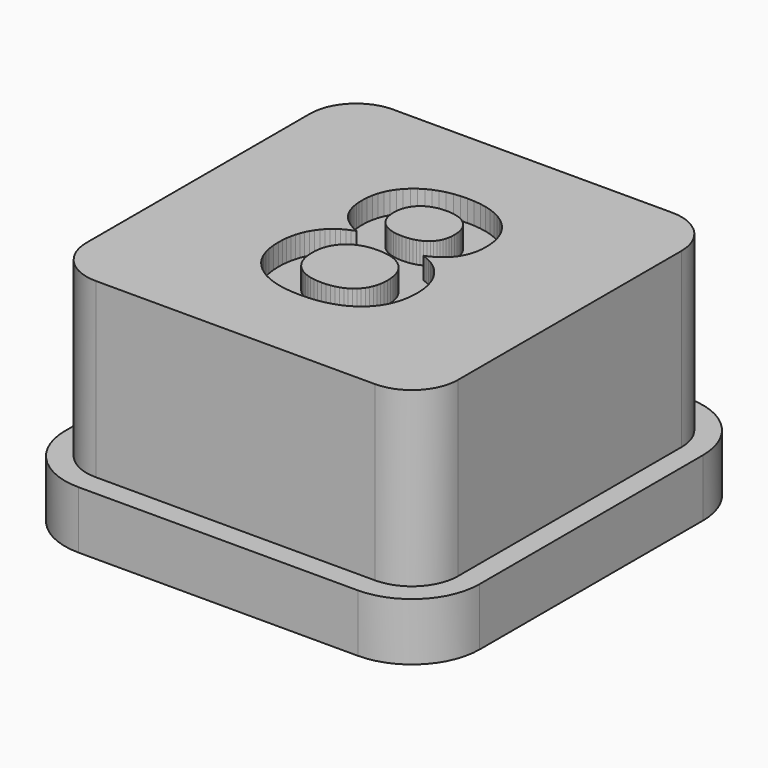
from build123d import *

# Parameters (mm, degrees)
F1_DEPTH = 2
F2_DEPTH = 8
F3_DEPTH = 7.25


with BuildPart() as f1:
    # F0 (on Top) → F1 (new body)
    with BuildSketch(Plane.XY):
        with BuildLine():
            Line((4.85, 7.2), (-4.85, 7.2))
            ThreePointArc((-4.85, 7.2), (-6.5117009358, 6.5117009358), (-7.2, 4.85))
            Line((-7.2, 4.85), (-7.2, -4.85))
            ThreePointArc((-7.2, -4.85), (-6.5117009358, -6.5117009358), (-4.85, -7.2))
            Line((-4.85, -7.2), (4.85, -7.2))
            ThreePointArc((4.85, -7.2), (6.5117009358, -6.5117009358), (7.2, -4.85))
            Line((7.2, -4.85), (7.2, 4.85))
            ThreePointArc((7.2, 4.85), (6.5117009358, 6.5117009358), (4.85, 7.2))
        make_face()
        with BuildLine():
            ThreePointArc((6.45, -4.85), (5.9813708499, -5.9813708499), (4.85, -6.45))
            Line((4.85, -6.45), (-4.85, -6.45))
            ThreePointArc((-4.85, -6.45), (-5.9813708499, -5.9813708499), (-6.45, -4.85))
            Line((-6.45, -4.85), (-6.45, 4.85))
            ThreePointArc((-6.45, 4.85), (-5.9813708499, 5.9813708499), (-4.85, 6.45))
            Line((-4.85, 6.45), (4.85, 6.45))
            ThreePointArc((4.85, 6.45), (5.9813708499, 5.9813708499), (6.45, 4.85))
            Line((6.45, 4.85), (6.45, -4.85))
        make_face(mode=Mode.SUBTRACT)
    extrude(amount=F1_DEPTH)

    # F0 (on Top) → F2 (join)
    with BuildSketch(Plane.XY):
        with BuildLine():
            Line((-4.85, -6.45), (4.85, -6.45))
            ThreePointArc((4.85, -6.45), (5.9813708499, -5.9813708499), (6.45, -4.85))
            Line((6.45, -4.85), (6.45, 4.85))
            ThreePointArc((6.45, 4.85), (5.9813708499, 5.9813708499), (4.85, 6.45))
            Line((4.85, 6.45), (-4.85, 6.45))
            ThreePointArc((-4.85, 6.45), (-5.9813708499, 5.9813708499), (-6.45, 4.85))
            Line((-6.45, 4.85), (-6.45, -4.85))
            ThreePointArc((-6.45, -4.85), (-5.9813708499, -5.9813708499), (-4.85, -6.45))
        make_face()
        Polygon((-1.303535, 0.205863), (-1.159495, 0.258197), (-1.285455, 0.316545), (-1.402749, 0.379226), (-1.511377, 0.446241), (-1.611339, 0.517589), (-1.702634, 0.59327), (-1.785263, 0.673284), (-1.859226, 0.757631), (-1.924522, 0.846311), (-1.981675, 0.939997), (-2.031207, 1.039361), (-2.073119, 1.144403), (-2.107411, 1.255123), (-2.134083, 1.371521), (-2.153134, 1.493596), (-2.164564, 1.62135), (-2.168374, 1.754781), (-2.15911, 1.960084), (-2.131318, 2.155225), (-2.084998, 2.340207), (-2.02015, 2.515027), (-1.936774, 2.679688), (-1.83487, 2.834187), (-1.714438, 2.978526), (-1.575478, 3.112705), (-1.421277, 3.233735), (-1.255123, 3.338627), (-1.077015, 3.427382), (-0.886954, 3.5), (-0.684939, 3.556481), (-0.47097, 3.596824), (-0.245048, 3.62103), (-0.007172, 3.629098), (0.236232, 3.620918), (0.466786, 3.596376), (0.68449, 3.555472), (0.889344, 3.498207), (1.081348, 3.424581), (1.260502, 3.334593), (1.426806, 3.228243), (1.58026, 3.105533), (1.718099, 2.96915), (1.83756, 2.821785), (1.938642, 2.663438), (2.021346, 2.494109), (2.085671, 2.313797), (2.131617, 2.122503), (2.159185, 1.920226), (2.168374, 1.706967), (2.164377, 1.580147), (2.152386, 1.457885), (2.132402, 1.34018), (2.104423, 1.227032), (2.06845, 1.118442), (2.024483, 1.014408), (1.972523, 0.914932), (1.912568, 0.820014), (1.844844, 0.730175), (1.769574, 0.64594), (1.686758, 0.567308), (1.596397, 0.494279), (1.49849, 0.426854), (1.393037, 0.365032), (1.280039, 0.308813), (1.159495, 0.258197), (1.301368, 0.205788), (1.435323, 0.14419), (1.561358, 0.073402), (1.679474, -0.006574), (1.789671, -0.09574), (1.891948, -0.194096), (1.986307, -0.30164), (2.072746, -0.418374), (2.15007, -0.54243), (2.217085, -0.671939), (2.27379, -0.806902), (2.320184, -0.947319), (2.356269, -1.09319), (2.382044, -1.244514), (2.397509, -1.401292), (2.402664, -1.563525), (2.39269, -1.798487), (2.362769, -2.020449), (2.3129, -2.229412), (2.243084, -2.425376), (2.15332, -2.60834), (2.043609, -2.778304), (1.91395, -2.935269), (1.764344, -3.079235), (1.597032, -3.208109), (1.414255, -3.3198), (1.216012, -3.414308), (1.002305, -3.491633), (0.773133, -3.551774), (0.528496, -3.594732), (0.268395, -3.620507), (-0.007172, -3.629098), (-0.278294, -3.620507), (-0.534623, -3.594732), (-0.776159, -3.551774), (-1.002903, -3.491633), (-1.214854, -3.414308), (-1.412013, -3.3198), (-1.59438, -3.208109), (-1.761954, -3.079235), (-1.91212, -2.935568), (-2.042264, -2.7795), (-2.152386, -2.611029), (-2.242486, -2.430157), (-2.312564, -2.236883), (-2.36262, -2.031207), (-2.392653, -1.81313), (-2.402664, -1.58265), (-2.397584, -1.413769), (-2.382343, -1.251387), (-2.356942, -1.095506), (-2.32138, -0.946124), (-2.275657, -0.803241), (-2.219775, -0.666859), (-2.153731, -0.536976), (-2.077527, -0.413593), (-1.992059, -0.29798), (-1.898224, -0.191406), (-1.796021, -0.093873), (-1.685451, -0.005379), (-1.566513, 0.074075), (-1.439208, 0.144489), align=None, mode=Mode.SUBTRACT)
    extrude(amount=F2_DEPTH)



with BuildPart() as f2:
    # F0 (on Top) → F2, piece 2 (new body)
    with BuildSketch(Plane.XY):
        Polygon((0.134253, 2.70225), (0.016735, 2.706284), (-0.104295, 2.702212), (-0.21875, 2.689997), (-0.326631, 2.669639), (-0.427937, 2.641137), (-0.522669, 2.604492), (-0.610827, 2.559704), (-0.692409, 2.506772), (-0.767418, 2.445697), (-0.834657, 2.377599), (-0.89293, 2.303599), (-0.942239, 2.223697), (-0.982582, 2.137893), (-1.01396, 2.046187), (-1.036373, 1.948578), (-1.049821, 1.845068), (-1.054303, 1.735656), (-1.049933, 1.628671), (-1.036821, 1.527664), (-1.014969, 1.432633), (-0.984375, 1.343579), (-0.94504, 1.260502), (-0.896965, 1.183402), (-0.840148, 1.112278), (-0.77459, 1.047131), (-0.701412, 0.988858), (-0.621734, 0.938354), (-0.535556, 0.89562), (-0.442879, 0.860656), (-0.343702, 0.833461), (-0.238025, 0.814037), (-0.125848, 0.802382), (-0.007172, 0.798497), (0.114866, 0.802345), (0.229956, 0.813887), (0.338099, 0.833125), (0.439293, 0.860058), (0.533539, 0.894686), (0.620838, 0.937009), (0.701188, 0.987027), (0.77459, 1.04474), (0.840148, 1.109402), (0.896965, 1.180264), (0.94504, 1.257327), (0.984375, 1.340591), (1.014969, 1.430056), (1.036821, 1.525721), (1.049933, 1.627588), (1.054303, 1.735656), (1.04997, 1.846151), (1.036971, 1.950521), (1.015305, 2.048764), (0.984973, 2.140881), (0.945974, 2.226872), (0.898309, 2.306737), (0.841978, 2.380475), (0.776981, 2.448087), (0.704438, 2.508602), (0.62547, 2.561048), (0.540076, 2.605426), (0.448258, 2.641735), (0.350015, 2.669975), (0.245347, 2.690147), align=None)
    extrude(amount=F2_DEPTH)


with BuildPart() as f2b:
    # F0 (on Top) → F2, piece 3 (new body)
    with BuildSketch(Plane.XY):
        Polygon((-0.155994, -2.691678), (-0.007172, -2.696721), (0.142845, -2.691678), (0.284495, -2.67655), (0.417777, -2.651335), (0.542691, -2.616035), (0.659238, -2.570649), (0.767418, -2.515177), (0.86723, -2.449619), (0.958675, -2.373975), (1.040482, -2.289441), (1.111381, -2.197212), (1.171373, -2.097288), (1.220458, -1.989669), (1.258634, -1.874354), (1.285903, -1.751345), (1.302265, -1.62064), (1.307719, -1.48224), (1.302265, -1.342683), (1.285903, -1.210895), (1.258634, -1.086877), (1.220458, -0.970628), (1.171373, -0.86215), (1.111381, -0.761441), (1.040482, -0.668502), (0.958675, -0.583333), (0.86723, -0.507129), (0.767418, -0.441086), (0.659238, -0.385203), (0.542691, -0.339481), (0.417777, -0.303919), (0.284495, -0.278518), (0.142845, -0.263277), (-0.007172, -0.258197), (-0.153827, -0.263352), (-0.292563, -0.278817), (-0.42338, -0.304591), (-0.546277, -0.340676), (-0.661256, -0.387071), (-0.768315, -0.443776), (-0.867454, -0.51079), (-0.958675, -0.588115), (-1.040482, -0.674255), (-1.111381, -0.767717), (-1.171373, -0.8685), (-1.220458, -0.976605), (-1.258634, -1.092032), (-1.285903, -1.21478), (-1.302265, -1.344849), (-1.307719, -1.48224), (-1.302339, -1.62064), (-1.286202, -1.751345), (-1.259307, -1.874354), (-1.221653, -1.989669), (-1.173241, -2.097288), (-1.114071, -2.197212), (-1.044143, -2.289441), (-0.963456, -2.373975), (-0.873207, -2.449619), (-0.77459, -2.515177), (-0.667606, -2.570649), (-0.552254, -2.616035), (-0.428535, -2.651335), (-0.296448, -2.67655), align=None)
    extrude(amount=F2_DEPTH)


with BuildPart() as f1_1:
    add(f1.part)

    add(f2.part)  # F3 merges F2

    add(f2b.part)  # F3 merges F2b
    # F0 (on Top) → F3 (join)
    with BuildSketch(Plane.XY):
        Polygon((-1.285455, 0.316545), (-1.159495, 0.258197), (-1.303535, 0.205863), (-1.439208, 0.144489), (-1.566513, 0.074075), (-1.685451, -0.005379), (-1.796021, -0.093873), (-1.898224, -0.191406), (-1.992059, -0.29798), (-2.077527, -0.413593), (-2.153731, -0.536976), (-2.219775, -0.666859), (-2.275657, -0.803241), (-2.32138, -0.946124), (-2.356942, -1.095506), (-2.382343, -1.251387), (-2.397584, -1.413769), (-2.402664, -1.58265), (-2.392653, -1.81313), (-2.36262, -2.031207), (-2.312564, -2.236883), (-2.242486, -2.430157), (-2.152386, -2.611029), (-2.042264, -2.7795), (-1.91212, -2.935568), (-1.761954, -3.079235), (-1.59438, -3.208109), (-1.412013, -3.3198), (-1.214854, -3.414308), (-1.002903, -3.491633), (-0.776159, -3.551774), (-0.534623, -3.594732), (-0.278294, -3.620507), (-0.007172, -3.629098), (0.268395, -3.620507), (0.528496, -3.594732), (0.773133, -3.551774), (1.002305, -3.491633), (1.216012, -3.414308), (1.414255, -3.3198), (1.597032, -3.208109), (1.764344, -3.079235), (1.91395, -2.935269), (2.043609, -2.778304), (2.15332, -2.60834), (2.243084, -2.425376), (2.3129, -2.229412), (2.362769, -2.020449), (2.39269, -1.798487), (2.402664, -1.563525), (2.397509, -1.401292), (2.382044, -1.244514), (2.356269, -1.09319), (2.320184, -0.947319), (2.27379, -0.806902), (2.217085, -0.671939), (2.15007, -0.54243), (2.072746, -0.418374), (1.986307, -0.30164), (1.891948, -0.194096), (1.789671, -0.09574), (1.679474, -0.006574), (1.561358, 0.073402), (1.435323, 0.14419), (1.301368, 0.205788), (1.159495, 0.258197), (1.280039, 0.308813), (1.393037, 0.365032), (1.49849, 0.426854), (1.596397, 0.494279), (1.686758, 0.567308), (1.769574, 0.64594), (1.844844, 0.730175), (1.912568, 0.820014), (1.972523, 0.914932), (2.024483, 1.014408), (2.06845, 1.118442), (2.104423, 1.227032), (2.132402, 1.34018), (2.152386, 1.457885), (2.164377, 1.580147), (2.168374, 1.706967), (2.159185, 1.920226), (2.131617, 2.122503), (2.085671, 2.313797), (2.021346, 2.494109), (1.938642, 2.663438), (1.83756, 2.821785), (1.718099, 2.96915), (1.58026, 3.105533), (1.426806, 3.228243), (1.260502, 3.334593), (1.081348, 3.424581), (0.889344, 3.498207), (0.68449, 3.555472), (0.466786, 3.596376), (0.236232, 3.620918), (-0.007172, 3.629098), (-0.245048, 3.62103), (-0.47097, 3.596824), (-0.684939, 3.556481), (-0.886954, 3.5), (-1.077015, 3.427382), (-1.255123, 3.338627), (-1.421277, 3.233735), (-1.575478, 3.112705), (-1.714438, 2.978526), (-1.83487, 2.834187), (-1.936774, 2.679688), (-2.02015, 2.515027), (-2.084998, 2.340207), (-2.131318, 2.155225), (-2.15911, 1.960084), (-2.168374, 1.754781), (-2.164564, 1.62135), (-2.153134, 1.493596), (-2.134083, 1.371521), (-2.107411, 1.255123), (-2.073119, 1.144403), (-2.031207, 1.039361), (-1.981675, 0.939997), (-1.924522, 0.846311), (-1.859226, 0.757631), (-1.785263, 0.673284), (-1.702634, 0.59327), (-1.611339, 0.517589), (-1.511377, 0.446241), (-1.402749, 0.379226), align=None)
        Polygon((0.142845, -2.691678), (-0.007172, -2.696721), (-0.155994, -2.691678), (-0.296448, -2.67655), (-0.428535, -2.651335), (-0.552254, -2.616035), (-0.667606, -2.570649), (-0.77459, -2.515177), (-0.873207, -2.449619), (-0.963456, -2.373975), (-1.044143, -2.289441), (-1.114071, -2.197212), (-1.173241, -2.097288), (-1.221653, -1.989669), (-1.259307, -1.874354), (-1.286202, -1.751345), (-1.302339, -1.62064), (-1.307719, -1.48224), (-1.302265, -1.344849), (-1.285903, -1.21478), (-1.258634, -1.092032), (-1.220458, -0.976605), (-1.171373, -0.8685), (-1.111381, -0.767717), (-1.040482, -0.674255), (-0.958675, -0.588115), (-0.867454, -0.51079), (-0.768315, -0.443776), (-0.661256, -0.387071), (-0.546277, -0.340676), (-0.42338, -0.304591), (-0.292563, -0.278817), (-0.153827, -0.263352), (-0.007172, -0.258197), (0.142845, -0.263277), (0.284495, -0.278518), (0.417777, -0.303919), (0.542691, -0.339481), (0.659238, -0.385203), (0.767418, -0.441086), (0.86723, -0.507129), (0.958675, -0.583333), (1.040482, -0.668502), (1.111381, -0.761441), (1.171373, -0.86215), (1.220458, -0.970628), (1.258634, -1.086877), (1.285903, -1.210895), (1.302265, -1.342683), (1.307719, -1.48224), (1.302265, -1.62064), (1.285903, -1.751345), (1.258634, -1.874354), (1.220458, -1.989669), (1.171373, -2.097288), (1.111381, -2.197212), (1.040482, -2.289441), (0.958675, -2.373975), (0.86723, -2.449619), (0.767418, -2.515177), (0.659238, -2.570649), (0.542691, -2.616035), (0.417777, -2.651335), (0.284495, -2.67655), align=None, mode=Mode.SUBTRACT)
        Polygon((-0.104295, 2.702212), (0.016735, 2.706284), (0.134253, 2.70225), (0.245347, 2.690147), (0.350015, 2.669975), (0.448258, 2.641735), (0.540076, 2.605426), (0.62547, 2.561048), (0.704438, 2.508602), (0.776981, 2.448087), (0.841978, 2.380475), (0.898309, 2.306737), (0.945974, 2.226872), (0.984973, 2.140881), (1.015305, 2.048764), (1.036971, 1.950521), (1.04997, 1.846151), (1.054303, 1.735656), (1.049933, 1.627588), (1.036821, 1.525721), (1.014969, 1.430056), (0.984375, 1.340591), (0.94504, 1.257327), (0.896965, 1.180264), (0.840148, 1.109402), (0.77459, 1.04474), (0.701188, 0.987027), (0.620838, 0.937009), (0.533539, 0.894686), (0.439293, 0.860058), (0.338099, 0.833125), (0.229956, 0.813887), (0.114866, 0.802345), (-0.007172, 0.798497), (-0.125848, 0.802382), (-0.238025, 0.814037), (-0.343702, 0.833461), (-0.442879, 0.860656), (-0.535556, 0.89562), (-0.621734, 0.938354), (-0.701412, 0.988858), (-0.77459, 1.047131), (-0.840148, 1.112278), (-0.896965, 1.183402), (-0.94504, 1.260502), (-0.984375, 1.343579), (-1.014969, 1.432633), (-1.036821, 1.527664), (-1.049933, 1.628671), (-1.054303, 1.735656), (-1.049821, 1.845068), (-1.036373, 1.948578), (-1.01396, 2.046187), (-0.982582, 2.137893), (-0.942239, 2.223697), (-0.89293, 2.303599), (-0.834657, 2.377599), (-0.767418, 2.445697), (-0.692409, 2.506772), (-0.610827, 2.559704), (-0.522669, 2.604492), (-0.427937, 2.641137), (-0.326631, 2.669639), (-0.21875, 2.689997), align=None, mode=Mode.SUBTRACT)
    extrude(amount=F3_DEPTH)


solid = f1_1.part
